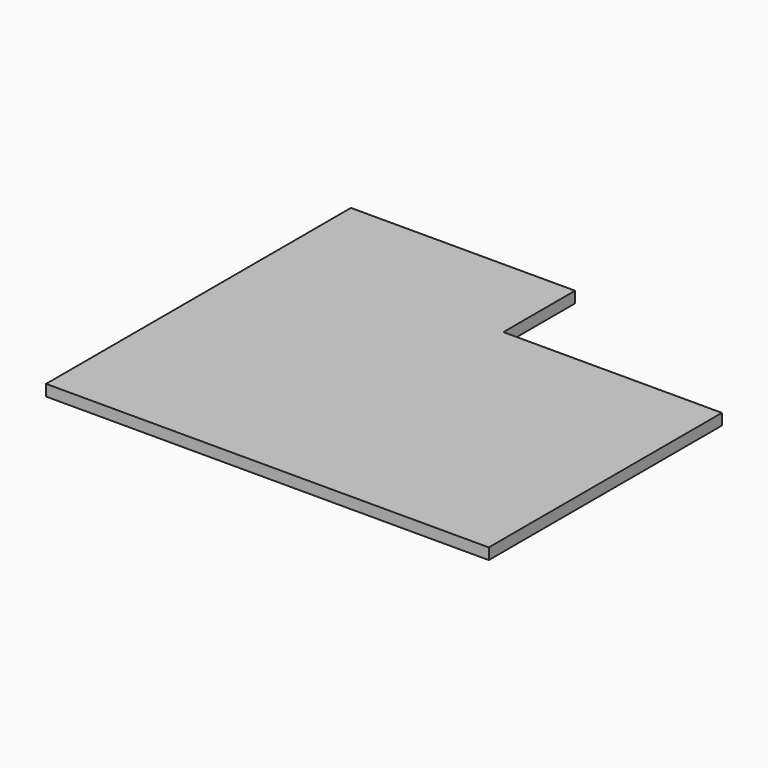
from build123d import *

# Parameters (mm, degrees)
SKETCH_W        = 41.5
SKETCH_H        = 36
PAD_DEPTH       = 6
POCKET_DEPTH    = 5
SKETCH002_W     = 19.5
SKETCH002_H     = 8
POCKET001_DEPTH = 6.001
POCKET002_DEPTH = 1
SKETCH005_W     = 1
SKETCH005_H     = 19
PAD001_DEPTH    = 4
PAD002_DEPTH    = 10
SKETCH007_W     = 52.700282
SKETCH007_H     = 20.841337
POCKET003_DEPTH = 41.501
SKETCH008_W     = 1
SKETCH008_H     = 18
PAD003_DEPTH    = 4


with BuildPart() as part:
    # Sketch → Pad (new body)
    with BuildSketch(Plane.XY):
        with Locations((-0.25, 18)):
            Rectangle(SKETCH_W, SKETCH_H)
    extrude(amount=PAD_DEPTH)

    # Sketch001 (on Face6 of Pad) → Pocket (cut)
    with BuildSketch(Plane.XY.offset(6)):
        Polygon((-19, 2), (18.5, 2), (18.5, 26), (-1, 26), (-1, 34), (-19, 34), align=None)
    extrude(amount=-POCKET_DEPTH, mode=Mode.SUBTRACT)

    # Sketch002 (on Face5 of Pocket) → Pocket001 (cut, through all)
    with BuildSketch(Plane.XY.offset(6)):
        with Locations((10.75, 32)):
            Rectangle(SKETCH002_W, SKETCH002_H)
    extrude(amount=-POCKET001_DEPTH, mode=Mode.SUBTRACT)

    # Sketch004 (on Face5 of Pocket001) → Pocket002 (cut)
    with BuildSketch(Plane.XY.offset(6)):
        Polygon((-20, 35), (0, 35), (0, 27), (19.5, 27), (19.5, 1), (-20, 1), align=None)
    extrude(amount=-POCKET002_DEPTH, mode=Mode.SUBTRACT)

    # Sketch005 (on Face22 of Pocket002) → Pad001 (join)
    with BuildSketch(Plane.XY.offset(1)):
        with Locations((-0.5, 16.5)):
            Rectangle(SKETCH005_W, SKETCH005_H)
    extrude(amount=PAD001_DEPTH)

    # Sketch006 (on Face5 of Pad001) → Pad002 (join)
    with BuildSketch(Plane.XY.offset(6)):
        Polygon((-20, 35), (0, 35), (0, 27), (19.5, 27), (19.5, 1), (-20, 1), align=None)
    extrude(amount=-PAD002_DEPTH)

    # Sketch007 (on Face2 of Pad002) → Pocket003 (cut, through all)
    with BuildSketch(Plane(origin=(-21, 0, 0), x_dir=(0, -1, 0), z_dir=(-1, 0, 0))):
        with Locations((-14.885127, 7.420668)):
            Rectangle(SKETCH007_W, SKETCH007_H)
    extrude(amount=-POCKET003_DEPTH, mode=Mode.SUBTRACT)

    # Sketch008 (on Face4 of Pocket003) → Pad003 (join)
    with BuildSketch(Plane(origin=(0, 0, -4), x_dir=(1, 0, 0), z_dir=(0, 0, -1))):
        with Locations((0.5, -16)):
            Rectangle(SKETCH008_W, SKETCH008_H)
    extrude(amount=PAD003_DEPTH)


solid = part.part
